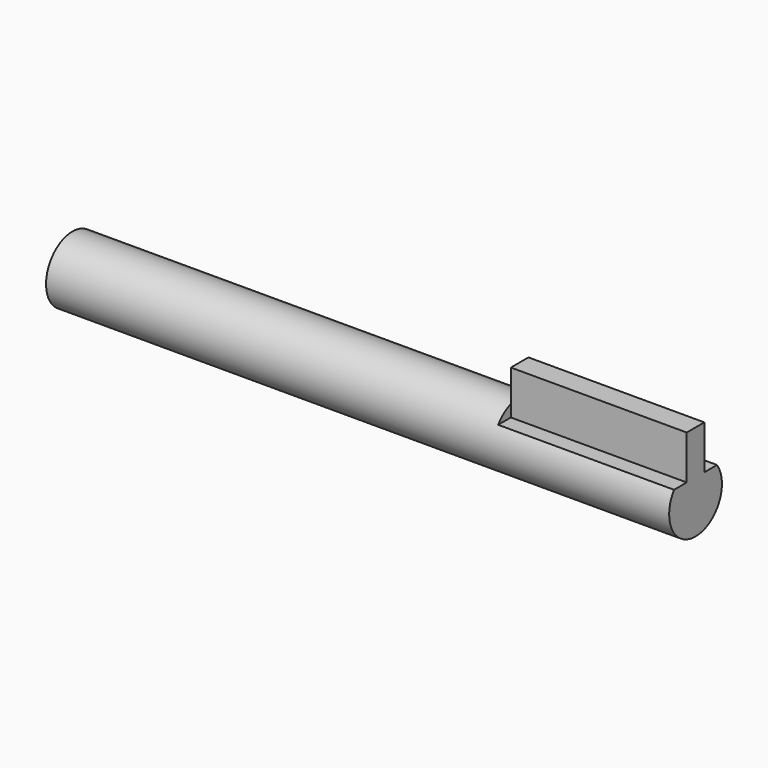
from build123d import *

# Parameters (mm, degrees)
F0_R     = 9.525
F1_DEPTH = 179.9844
F3_DEPTH = 50.8
F4_W     = 50.8
F4_H     = 6.35
F5_DEPTH = 12.7


with BuildPart() as f1:
    # F0 (on Right) → F1 (new body)
    with BuildSketch(Plane.YZ):
        Circle(F0_R)
    extrude(amount=-F1_DEPTH)

    # F2 (on face) → F3 (cut)
    with BuildSketch(Plane.YZ):
        with BuildLine():
            Line((-7.7629294276, 5.5192890577), (0, 5.5192890577))
            Line((0, 5.5192890577), (7.7629294276, 5.5192890577))
            ThreePointArc((7.7629294276, 5.5192890577), (0, 9.525), (-7.7629294276, 5.5192890577))
        make_face()
    extrude(amount=-F3_DEPTH, mode=Mode.SUBTRACT)

    # F4 (on face) → F5 (join)
    with BuildSketch(Plane.XY.offset(5.5192890577)):
        with Locations((-25.4, 0)):
            Rectangle(F4_W, F4_H)
    extrude(amount=F5_DEPTH)


solid = f1.part
